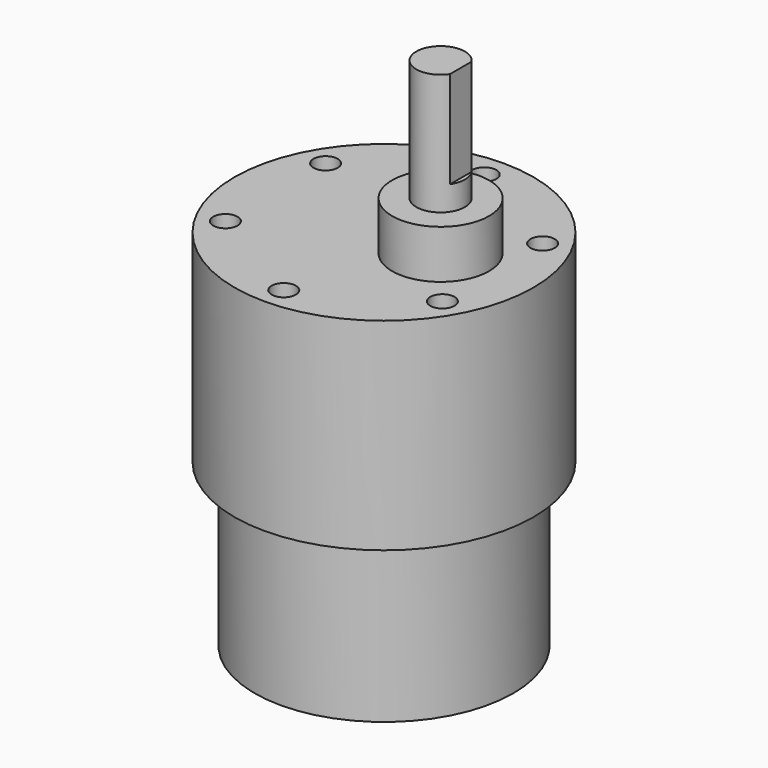
from build123d import *

# Parameters (mm, degrees)
BOX_W             = 10
BOX_H             = 10
BOX_DEPTH         = 12
CYLINDER004_R     = 1.5
CYLINDER004_DEPTH = 5
ARRAY_COUNT       = 6
CYLINDER001_R     = 18.5
CYLINDER001_DEPTH = 25
CYLINDER002_R     = 6
CYLINDER002_DEPTH = 6
CYLINDER003_R     = 3
CYLINDER003_DEPTH = 15
CYLINDER_R        = 16
CYLINDER_DEPTH    = 20


with BuildPart() as shaft_d_cut_out:
    # Box → Box (new body)
    with BuildSketch(Plane(origin=(9.5, -5, 9), x_dir=(1, 0, 0), z_dir=(0, 0, 1))):
        with Locations((5, 5)):
            Rectangle(BOX_W, BOX_H)
    extrude(amount=BOX_DEPTH)


with BuildPart() as negative_fusion:
    # Cylinder004 → Cylinder004 (new body)
    with BuildSketch(Plane(origin=(0, -15.5, -5), x_dir=(1, 0, 0), z_dir=(0, 0, 1))):
        Circle(CYLINDER004_R)
    extrude(amount=CYLINDER004_DEPTH)

    # Array: Negative Fusion ×6 about axis
    array_axis = Axis((0, 0, 0), (0, 0, 1))


with BuildPart() as negative_fusion_1:
    add(negative_fusion.part)
    for i in range(1, ARRAY_COUNT):
        add(negative_fusion.part.rotate(array_axis, i * 360 / ARRAY_COUNT))

    # Fusion: union Shaft D Cut Out
    add(shaft_d_cut_out.part)


with BuildPart() as gear_box:
    # Cylinder001 → Cylinder001 (new body)
    with BuildSketch(Plane.XY.offset(-25)):
        Circle(CYLINDER001_R)
    extrude(amount=CYLINDER001_DEPTH)


with BuildPart() as shaft_flange:
    # Cylinder002 → Cylinder002 (new body)
    with BuildSketch(Plane(origin=(7, 0, 0), x_dir=(1, 0, 0), z_dir=(0, 0, 1))):
        Circle(CYLINDER002_R)
    extrude(amount=CYLINDER002_DEPTH)


with BuildPart() as shaft:
    # Cylinder003 → Cylinder003 (new body)
    with BuildSketch(Plane(origin=(7, 0, 6), x_dir=(1, 0, 0), z_dir=(0, 0, 1))):
        Circle(CYLINDER003_R)
    extrude(amount=CYLINDER003_DEPTH)


with BuildPart() as dc_gear_motor_37mm:
    # Cylinder → Cylinder (new body)
    with BuildSketch(Plane.XY.offset(-45)):
        Circle(CYLINDER_R)
    extrude(amount=CYLINDER_DEPTH)

    # Fusion001: union Gear Box, Shaft Flange, Shaft
    add(gear_box.part)
    add(shaft_flange.part)
    add(shaft.part)

    # Cut: cut Negative Fusion
    add(negative_fusion_1.part, mode=Mode.SUBTRACT)


solid = dc_gear_motor_37mm.part
